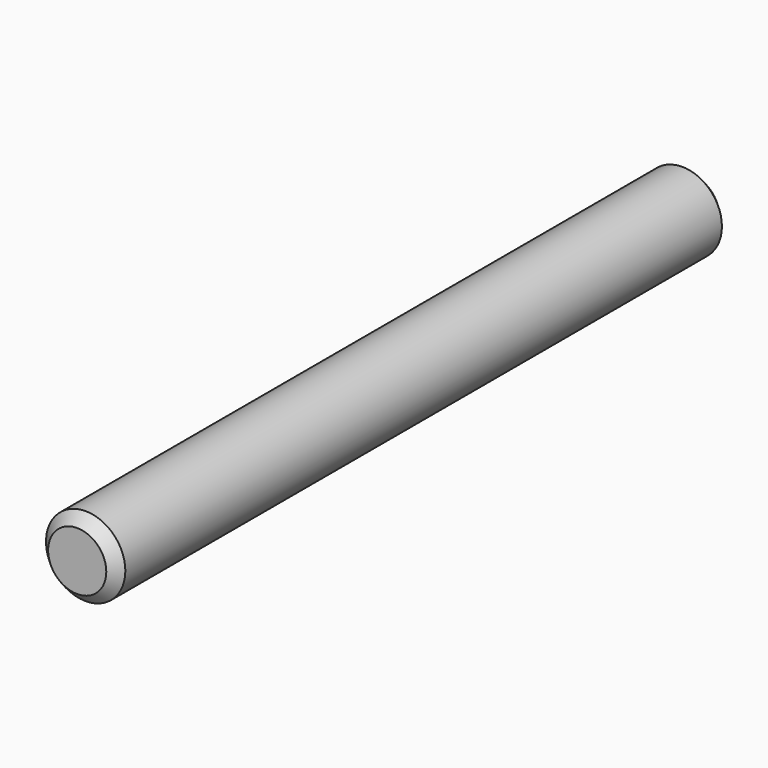
from build123d import *

# Parameters (mm, degrees)
F0_R     = 4.7625
F1_DEPTH = 92.075
F2_SIZE  = 1.27


with BuildPart() as f1:
    # F0 (on Front) → F1 (new body)
    with BuildSketch(Plane.XZ):
        Circle(F0_R)
        Circle(F0_R)
    extrude(amount=-F1_DEPTH)

    # F2
    f2_edges = [f1.edges().sort_by_distance(p)[0] for p in [
        (-4.7625, 0, 0),
        (-4.7625, 92.075, 0),
    ]]
    chamfer(f2_edges, length=F2_SIZE)


solid = f1.part
